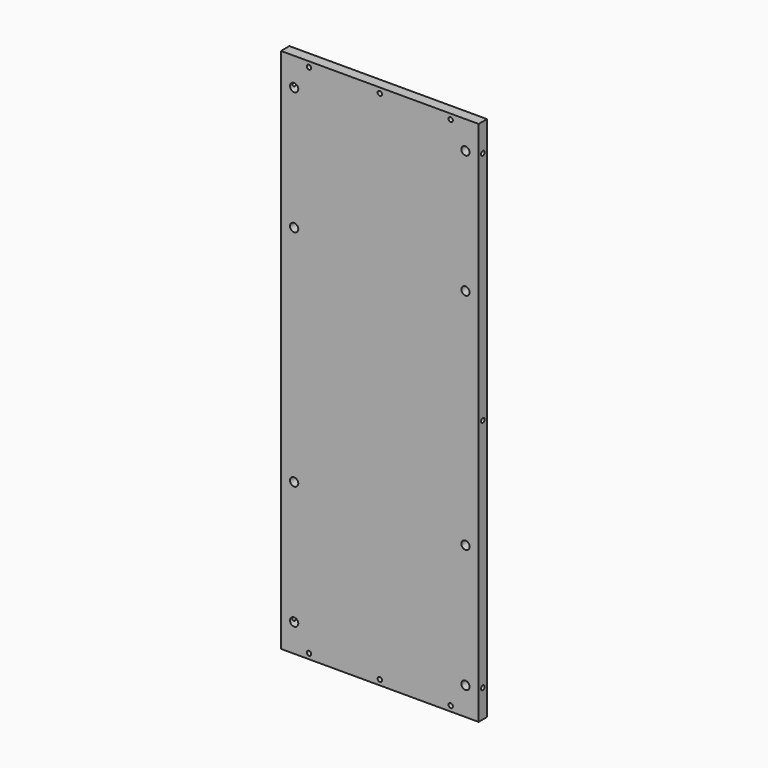
from build123d import *

# Parameters (mm, degrees)
F0_W      = 358.775
F0_H      = 955.675
F1_DEPTH  = 19.05
F3_D      = 8.001
F3_DEPTH  = 14.224
F3_TIP    = 2.4037429064
F4_D      = 8.001
F4_DEPTH  = 14.224
F4_TIP    = 2.4037429064
F6_D      = 15.0114
F6_DEPTH  = 14.224
F6_TIP    = 4.5098795482
F8_D      = 8.001
F8_DEPTH  = 25.4
F8_TIP    = 2.4037429064
F10_D     = 8.001
F10_DEPTH = 25.4
F10_TIP   = 2.4037429064


with BuildPart() as f1:
    # F0 (on Front) → F1 (new body)
    with BuildSketch(Plane.XZ):
        Rectangle(F0_W, F0_H)
    extrude(amount=F1_DEPTH)

    # F3
    with Locations(Plane.XZ.offset(19.05)):
        with Locations((0, 468.3125), (-128.5875, 468.3125), (128.5875, 468.3125), (-128.5875, -468.3125), (128.5875, -468.3125)):
            Hole(F3_D / 2, depth=F3_DEPTH)
            with Locations((0, 0, -(F3_DEPTH + F3_TIP / 2))):  # 118° drill point
                Cone(0, F3_D / 2, F3_TIP, mode=Mode.SUBTRACT)

    # F4
    with Locations(Plane.XZ.offset(19.05)):
        with Locations((0, -468.3125)):
            Hole(F4_D / 2, depth=F4_DEPTH)
            with Locations((0, 0, -(F4_DEPTH + F4_TIP / 2))):  # 118° drill point
                Cone(0, F4_D / 2, F4_TIP, mode=Mode.SUBTRACT)

    # F6
    with Locations(Plane.XZ.offset(19.05)):
        with Locations((-155.5115, 427.0375), (155.5115, 427.0375), (-155.5115, -427.0375), (155.5115, -427.0375), (-155.5115, 203.2), (155.5115, 203.2), (155.5115, -203.2), (-155.5115, -203.2)):
            Hole(F6_D / 2, depth=F6_DEPTH)
            with Locations((0, 0, -(F6_DEPTH + F6_TIP / 2))):  # 118° drill point
                Cone(0, F6_D / 2, F6_TIP, mode=Mode.SUBTRACT)

    # F8
    with Locations(Plane.YZ.offset(179.3875)):
        with Locations((-9.525, 427.0375), (-9.525, 0), (-9.525, -427.0375)):
            Hole(F8_D / 2, depth=F8_DEPTH)
            with Locations((0, 0, -(F8_DEPTH + F8_TIP / 2))):  # 118° drill point
                Cone(0, F8_D / 2, F8_TIP, mode=Mode.SUBTRACT)

    # F10
    with Locations(Plane(origin=(-179.3875, 0, 0), x_dir=(0, -1, 0), z_dir=(-1, 0, 0))):
        with Locations((9.525, 427.0375), (9.525, 0), (9.525, -427.0375)):
            Hole(F10_D / 2, depth=F10_DEPTH)
            with Locations((0, 0, -(F10_DEPTH + F10_TIP / 2))):  # 118° drill point
                Cone(0, F10_D / 2, F10_TIP, mode=Mode.SUBTRACT)


solid = f1.part
